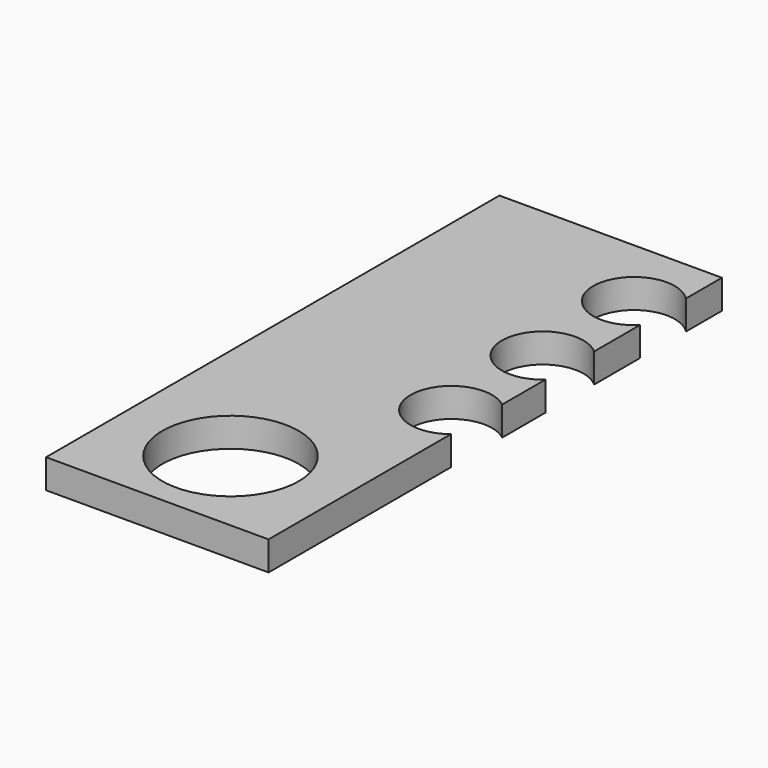
from build123d import *

# Parameters (mm, degrees)
F0_W     = 48.50465
F0_H     = 123.528182
F0_R     = 14.869819
F1_DEPTH = 6.35
F2_R     = 8.89
F3_DEPTH = 6.351


with BuildPart() as f1:
    # F0 (on Top) → F1 (new body)
    with BuildSketch(Plane.XY):
        Rectangle(F0_W, F0_H)
        with Locations((0, -41.818257)):
            Circle(F0_R, mode=Mode.SUBTRACT)
    extrude(amount=F1_DEPTH)

    # F2 (on face) → F3 (cut, through all)
    with BuildSketch(Plane.XY.offset(6.35)):
        with Locations((17.947458, 45.703962)):
            Circle(F2_R)
        with Locations((18.347179, 20.307108)):
            Circle(F2_R)
        with Locations((18.7469, -5.089747)):
            Circle(F2_R)
    extrude(amount=-F3_DEPTH, mode=Mode.SUBTRACT)


solid = f1.part
